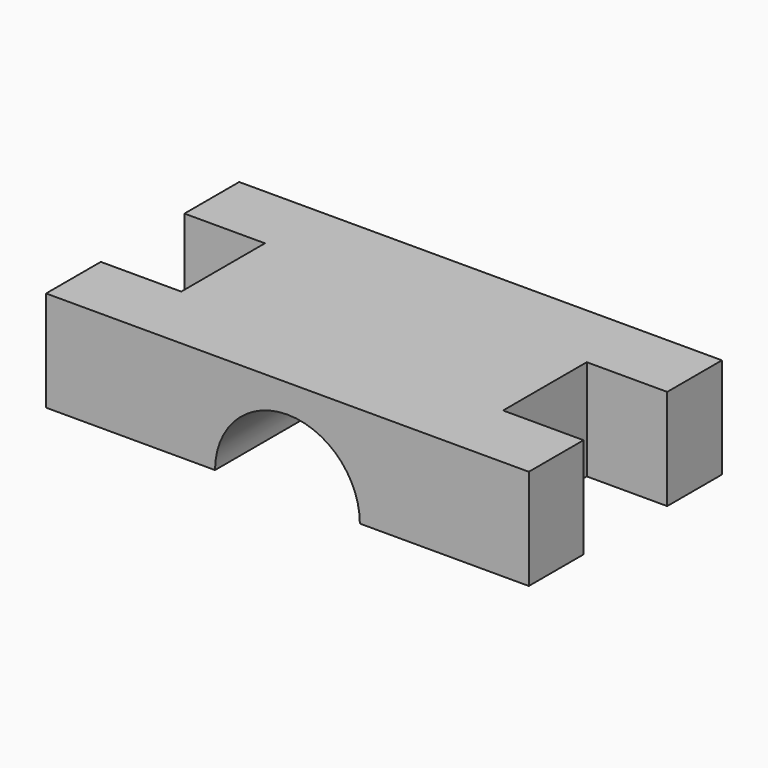
from build123d import *

# Parameters (mm, degrees)
F1_DEPTH = 600
F2_W     = 200
F2_H     = 260
F3_DEPTH = 250.001
F4_W     = 200
F4_H     = 260
F5_DEPTH = 250.001


with BuildPart() as f1:
    # F0 (on Front) → F1 (new body)
    with BuildSketch(Plane.XZ):
        with BuildLine():
            Line((600, 125), (-600, 125))
            Line((-600, 125), (-600, -125))
            Line((-600, -125), (-180, -125))
            ThreePointArc((-180, -125), (0, 55), (180, -125))
            Line((180, -125), (600, -125))
            Line((600, -125), (600, 125))
        make_face()
    extrude(amount=F1_DEPTH)

    # F2 (on face) → F3 (cut, through all)
    with BuildSketch(Plane.XY.offset(125)):
        with Locations((500, -300)):
            Rectangle(F2_W, F2_H)
    extrude(amount=-F3_DEPTH, mode=Mode.SUBTRACT)

    # F4 (on face) → F5 (cut, through all)
    with BuildSketch(Plane.XY.offset(125)):
        with Locations((-500, -300)):
            Rectangle(F4_W, F4_H)
    extrude(amount=-F5_DEPTH, mode=Mode.SUBTRACT)


solid = f1.part
